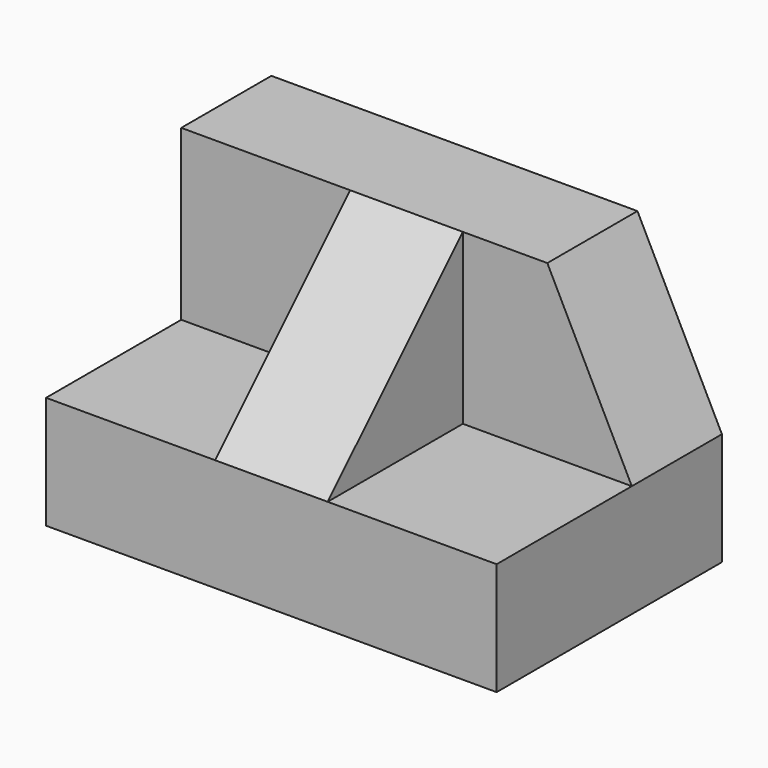
from build123d import *

# Parameters (mm, degrees)
F0_W     = 50.8
F0_H     = 31.75
F1_DEPTH = 31.75
F2_W     = 19.05
F2_H     = 19.05
F3_DEPTH = 19.05
F4_W     = 19.05
F4_H     = 19.05
F5_DEPTH = 19.05
F7_DEPTH = 12.701
F9_DEPTH = 31.751


with BuildPart() as f1:
    # F0 (on Front) → F1 (new body)
    with BuildSketch(Plane.XZ):
        with Locations((-25.4, 15.875)):
            Rectangle(F0_W, F0_H)
    extrude(amount=F1_DEPTH)

    # F2 (on face) → F3 (cut)
    with BuildSketch(Plane.XZ.offset(31.75)):
        with Locations((-41.275, 22.225)):
            Rectangle(F2_W, F2_H)
    extrude(amount=-F3_DEPTH, mode=Mode.SUBTRACT)

    # F4 (on face) → F5 (cut)
    with BuildSketch(Plane.XZ.offset(31.75)):
        with Locations((-9.525, 22.225)):
            Rectangle(F4_W, F4_H)
    extrude(amount=-F5_DEPTH, mode=Mode.SUBTRACT)

    # F6 (on face) → F7 (cut, through all)
    with BuildSketch(Plane.XZ.offset(12.7)):
        Polygon((-9.525, 31.75), (0, 12.7), (0, 31.75), align=None)
    extrude(amount=-F7_DEPTH, mode=Mode.SUBTRACT)

    # F8 (on face) → F9 (cut, through all)
    with BuildSketch(Plane.YZ.offset(-19.05)):
        Polygon((-31.75, 12.7), (-12.7, 31.75), (-31.75, 31.75), align=None)
    extrude(amount=-F9_DEPTH, mode=Mode.SUBTRACT)


solid = f1.part
